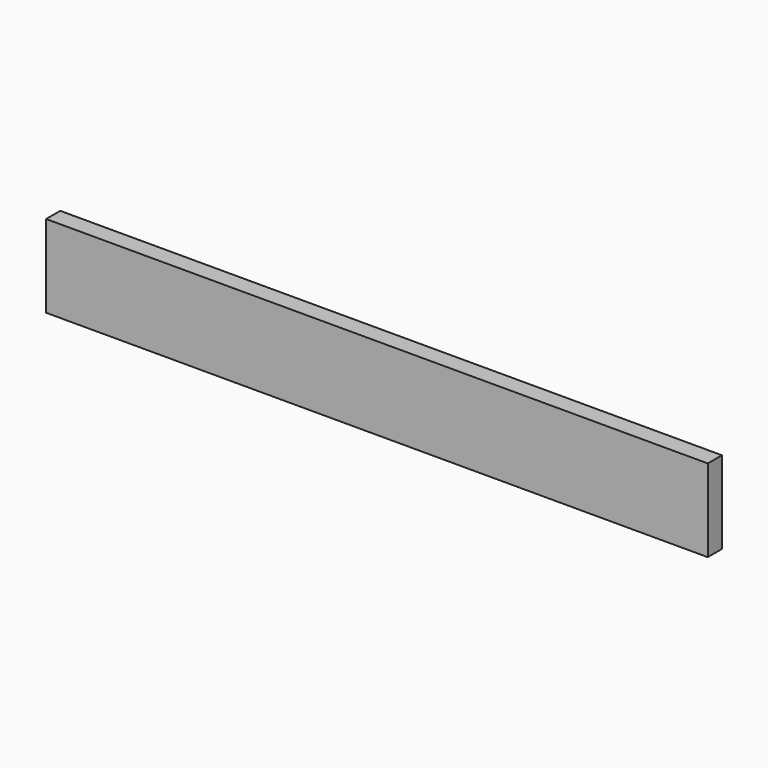
from build123d import *

# Parameters (mm, degrees)
SKETCH_W  = 19.05
SKETCH_H  = 88.9
PAD_DEPTH = 712.65


with BuildPart() as part:
    # Sketch → Pad (new body)
    with BuildSketch(Plane.YZ):
        with Locations((9.525, 44.45)):
            Rectangle(SKETCH_W, SKETCH_H)
    extrude(amount=PAD_DEPTH)


solid = part.part
